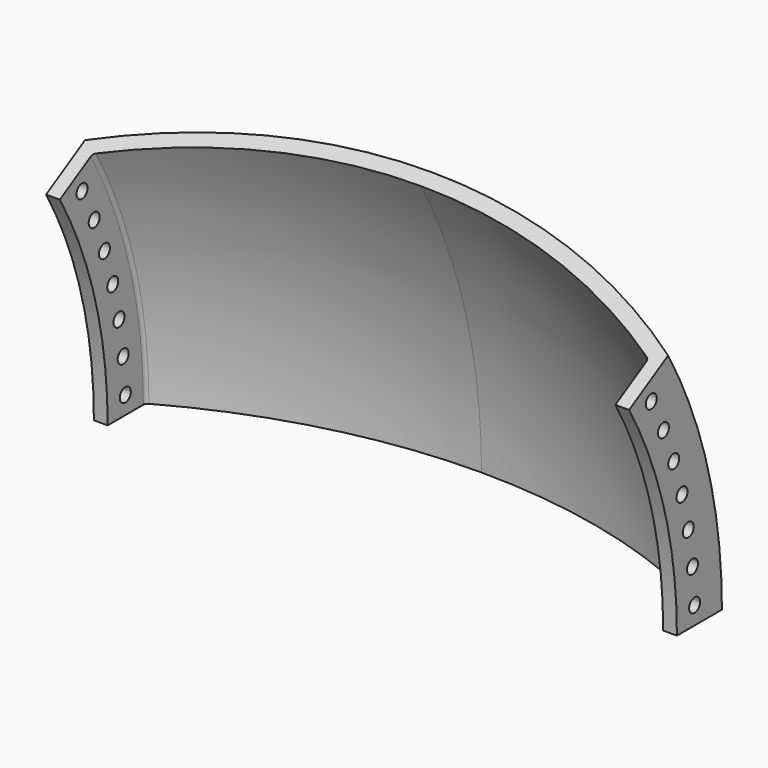
from build123d import *

# Parameters (mm, degrees)
F1_ANGLE = 30
F2_R     = 2
F3_R     = 2
F4_R     = 3
F5_DEPTH = 254.001


with BuildPart() as f1:
    # F0 (on Top) → F1 (revolve)
    with BuildSketch(Plane.XY):
        with BuildLine():
            Line((127, 194.31499), (127, 218.81499))
            ThreePointArc((127, 218.81499), (65.760199, 244.304311), (0, 253))
            Line((0, 253), (0, 246.65))
            ThreePointArc((0, 246.65), (62.544207, 238.588442), (121, 214.930739))
            Line((121, 214.930739), (121, 194.31499))
            Line((121, 194.31499), (127, 194.31499))
        make_face()
        with BuildLine():
            Line((0, 246.65), (0, 253))
            ThreePointArc((0, 253), (-65.760199, 244.304311), (-127, 218.81499))
            Line((-127, 218.81499), (-127, 194.31499))
            Line((-127, 194.31499), (-121, 194.31499))
            Line((-121, 194.31499), (-121, 214.930739))
            ThreePointArc((-121, 214.930739), (-62.544207, 238.588442), (0, 246.65))
        make_face()
    revolve(axis=Axis((69.665767, 0, 0), (1, 0, 0)), revolution_arc=F1_ANGLE)

    # F2
    f2_edges = [f1.edges().sort_by_distance(p)[0] for p in [
        (121, 207.607152, 55.628169),
    ]]
    fillet(f2_edges, radius=F2_R)

    # F3
    f3_edges = [f1.edges().sort_by_distance(p)[0] for p in [
        (-121, 207.607152, 55.628169),
    ]]
    fillet(f3_edges, radius=F3_R)

    # F4 (on face) → F5 (cut, through all)
    with BuildSketch(Plane(origin=(-127, 0, 0), x_dir=(0, -1, 0), z_dir=(-1, 0, 0))):
        with BuildLine():
            ThreePointArc((-199.78076, 23.037602), (-205.775963, 23.207197), (-199.799935, 22.698955))
            ThreePointArc((-199.799935, 22.698955), (-199.785558, 22.868008), (-199.78076, 23.037602))
        make_face()
        with BuildLine():
            ThreePointArc((-197.492142, 38.12701), (-203.478908, 38.40848), (-197.544959, 37.566552))
            ThreePointArc((-197.544959, 37.566552), (-197.505375, 37.845539), (-197.492142, 38.12701))
        make_face()
        with BuildLine():
            ThreePointArc((-200.938163, 7.689393), (-200.936833, 7.724924), (-200.935924, 7.760468))
            ThreePointArc((-200.935924, 7.760468), (-200.935491, 7.789912), (-200.935346, 7.819359))
            ThreePointArc((-200.935346, 7.819359), (-203.888144, 10.818988), (-206.933861, 7.913752))
            Line((-206.933861, 7.913752), (-200.938163, 7.689393))
        make_face()
        with BuildLine():
            ThreePointArc((-206.933861, 7.913752), (-204.047527, 4.821457), (-200.938163, 7.689393))
            Line((-200.938163, 7.689393), (-206.933861, 7.913752))
        make_face()
        with Locations((-203.949443, -7.442613)):
            Circle(F4_R)
        with Locations((-202.822972, -22.662963)):
            Circle(F4_R)
        with Locations((-200.562232, -37.756572)):
            Circle(F4_R)
        with Locations((-197.179868, -52.639032)):
            Circle(F4_R)
        with Locations((-192.694793, -67.227112)):
            Circle(F4_R)
        with Locations((-187.132091, -81.439231)):
            Circle(F4_R)
        with Locations((-180.52287, -95.195909)):
            Circle(F4_R)
        with Locations((-172.904092, -108.420213)):
            Circle(F4_R)
        with Locations((-164.318365, -121.038187)):
            Circle(F4_R)
        with Locations((-154.813702, -132.979267)):
            Circle(F4_R)
        with Locations((-144.443259, -144.176672)):
            Circle(F4_R)
        with Locations((-133.26503, -154.567783)):
            Circle(F4_R)
        with Locations((-121.341529, -164.094489)):
            Circle(F4_R)
        with Locations((-108.739437, -172.703511)):
            Circle(F4_R)
        with Locations((-95.52923, -180.346705)):
            Circle(F4_R)
        with Locations((-81.784784, -186.981328)):
            Circle(F4_R)
        with Locations((-67.582966, -192.570274)):
            Circle(F4_R)
        with Locations((-53.003195, -197.08229)):
            Circle(F4_R)
        with Locations((-38.12701, -200.492142)):
            Circle(F4_R)
        with Locations((-23.037602, -202.78076)):
            Circle(F4_R)
        with Locations((-7.819359, -203.935346)):
            Circle(F4_R)
        with Locations((7.442613, -203.949443)):
            Circle(F4_R)
        with Locations((22.662963, -202.822972)):
            Circle(F4_R)
        with Locations((37.756572, -200.562232)):
            Circle(F4_R)
        with Locations((52.639032, -197.179868)):
            Circle(F4_R)
        with Locations((67.227112, -192.694793)):
            Circle(F4_R)
        with Locations((81.439231, -187.132091)):
            Circle(F4_R)
        with Locations((95.195909, -180.52287)):
            Circle(F4_R)
        with Locations((108.420213, -172.904092)):
            Circle(F4_R)
        with Locations((121.038187, -164.318365)):
            Circle(F4_R)
        with Locations((132.979267, -154.813702)):
            Circle(F4_R)
        with Locations((144.176672, -144.443259)):
            Circle(F4_R)
        with Locations((154.567783, -133.26503)):
            Circle(F4_R)
        with Locations((164.094489, -121.341529)):
            Circle(F4_R)
        with Locations((172.703511, -108.739437)):
            Circle(F4_R)
        with Locations((180.346705, -95.52923)):
            Circle(F4_R)
        with Locations((186.981328, -81.784784)):
            Circle(F4_R)
        with Locations((192.570274, -67.582966)):
            Circle(F4_R)
        with Locations((197.08229, -53.003195)):
            Circle(F4_R)
        with Locations((200.492142, -38.12701)):
            Circle(F4_R)
        with Locations((202.78076, -23.037602)):
            Circle(F4_R)
        with Locations((203.935346, -7.819359)):
            Circle(F4_R)
        with Locations((203.949443, 7.442613)):
            Circle(F4_R)
        with Locations((202.822972, 22.662963)):
            Circle(F4_R)
        with Locations((200.562232, 37.756572)):
            Circle(F4_R)
        with Locations((197.179868, 52.639032)):
            Circle(F4_R)
        with Locations((192.694793, 67.227112)):
            Circle(F4_R)
        with Locations((187.132091, 81.439231)):
            Circle(F4_R)
        with Locations((180.52287, 95.195909)):
            Circle(F4_R)
        with Locations((172.904092, 108.420213)):
            Circle(F4_R)
        with Locations((164.318365, 121.038187)):
            Circle(F4_R)
        with Locations((154.813702, 132.979267)):
            Circle(F4_R)
        with Locations((144.443259, 144.176672)):
            Circle(F4_R)
        with Locations((133.26503, 154.567783)):
            Circle(F4_R)
        with Locations((121.341529, 164.094489)):
            Circle(F4_R)
        with Locations((108.739437, 172.703511)):
            Circle(F4_R)
        with Locations((95.52923, 180.346705)):
            Circle(F4_R)
        with Locations((81.784784, 186.981328)):
            Circle(F4_R)
        with Locations((67.582966, 192.570274)):
            Circle(F4_R)
        with Locations((53.003195, 197.08229)):
            Circle(F4_R)
        with Locations((38.12701, 200.492142)):
            Circle(F4_R)
        with Locations((23.037602, 202.78076)):
            Circle(F4_R)
        with Locations((7.819359, 203.935346)):
            Circle(F4_R)
        with Locations((-7.442613, 203.949443)):
            Circle(F4_R)
        with Locations((-22.662963, 202.822972)):
            Circle(F4_R)
        with Locations((-37.756572, 200.562232)):
            Circle(F4_R)
        with Locations((-52.639032, 197.179868)):
            Circle(F4_R)
        with Locations((-67.227112, 192.694793)):
            Circle(F4_R)
        with Locations((-81.439231, 187.132091)):
            Circle(F4_R)
        with Locations((-95.195909, 180.52287)):
            Circle(F4_R)
        with Locations((-108.420213, 172.904092)):
            Circle(F4_R)
        with Locations((-121.038187, 164.318365)):
            Circle(F4_R)
        with Locations((-132.979267, 154.813702)):
            Circle(F4_R)
        with Locations((-144.176672, 144.443259)):
            Circle(F4_R)
        with Locations((-154.567783, 133.26503)):
            Circle(F4_R)
        with Locations((-164.094489, 121.341529)):
            Circle(F4_R)
        with Locations((-172.703511, 108.739437)):
            Circle(F4_R)
        with Locations((-180.346705, 95.52923)):
            Circle(F4_R)
        with Locations((-186.981328, 81.784784)):
            Circle(F4_R)
        with Locations((-192.570274, 67.582966)):
            Circle(F4_R)
        with Locations((-197.08229, 53.003195)):
            Circle(F4_R)
    extrude(amount=-F5_DEPTH, mode=Mode.SUBTRACT)


solid = f1.part
